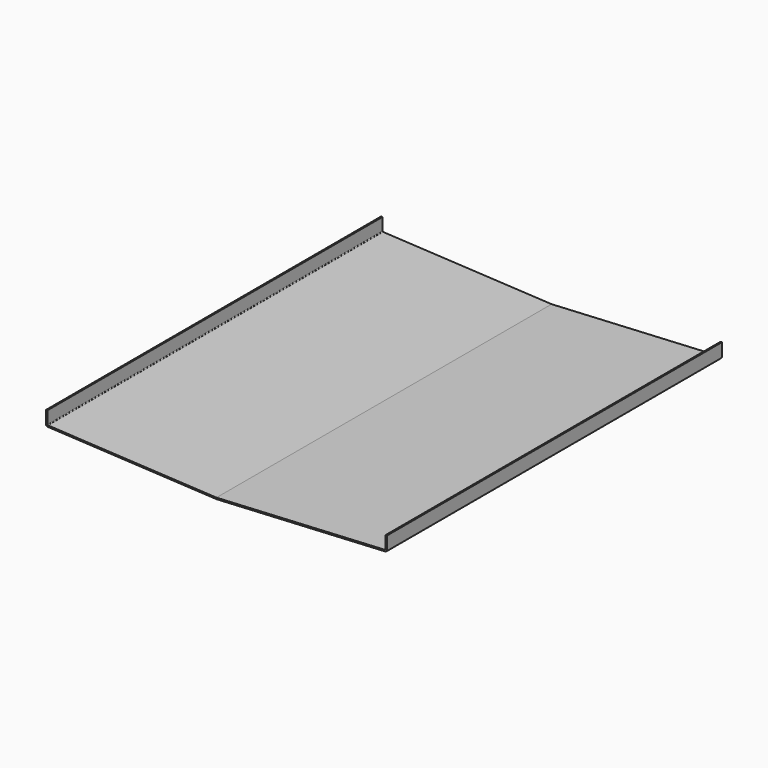
from build123d import *

# Parameters (mm, degrees)
F1_DEPTH = 900


with BuildPart() as f1:
    # F0 (on Front) → F1 (new body)
    with BuildSketch(Plane.XZ):
        with BuildLine():
            Line((-363.157008, 19.032252), (0, 0))
            Line((0, 0), (363.157008, 19.032252))
            ThreePointArc((363.157008, 19.032252), (365.176123, 19.963077), (366, 22.028141))
            Line((366, 22.028141), (366, 50))
            Line((366, 50), (363, 50))
            Line((363, 50), (363.066634, 23.454728))
            ThreePointArc((363.066634, 23.454728), (362.655995, 22.419798), (361.645143, 21.953019))
            Line((361.645143, 21.953019), (0, 3))
            Line((0, 3), (-361.578504, 21.949526))
            ThreePointArc((-361.578504, 21.949526), (-362.588062, 22.414939), (-363, 23.447471))
            Line((-363, 23.447471), (-363, 50))
            Line((-363, 50), (-366, 50))
            Line((-366, 50), (-366, 22.028141))
            ThreePointArc((-366, 22.028141), (-365.176123, 19.963077), (-363.157008, 19.032252))
        make_face()
    extrude(amount=F1_DEPTH)


solid = f1.part
